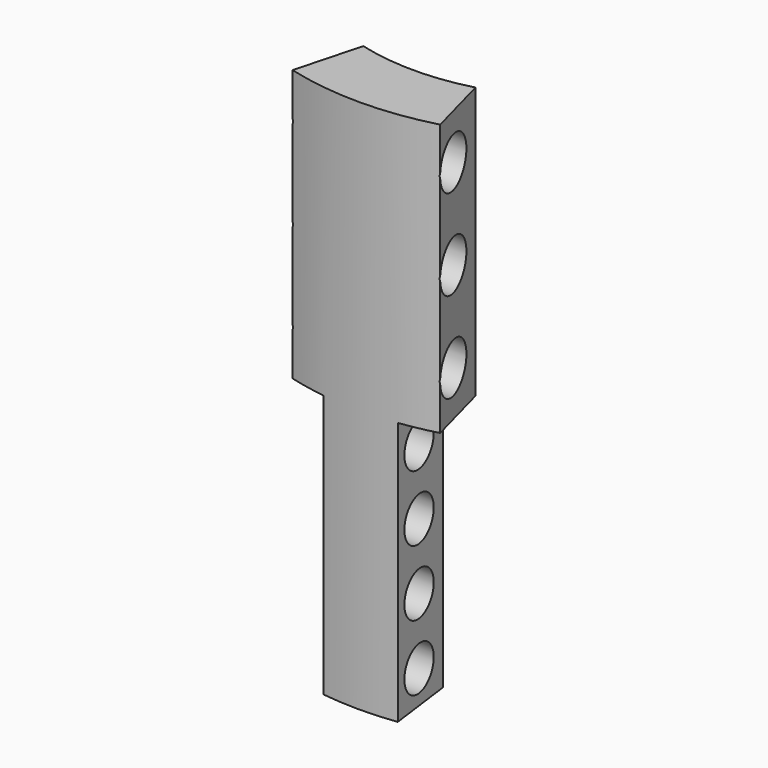
from build123d import *

# Parameters (mm, degrees)
F0_W     = 6.25
F0_H     = 24.75
F0_R     = 2.25
F1_ANGLE = 30
F2_DEPTH = 12.5
F0_H_2   = 24
F0_R_2   = 2
F3_ANGLE = 15
F4_DEPTH = 5


with BuildPart() as f1:
    # F0 (on Right) → F1 (revolve, symmetric)
    with BuildSketch(Plane.YZ) as f1_sk:
        with Locations((-22.875, 48.987537)):
            Rectangle(F0_W, F0_H)
        with Locations((-22.875, 40.737537)):
            Circle(F0_R, mode=Mode.SUBTRACT)
        with Locations((-22.875, 48.987537)):
            Circle(F0_R, mode=Mode.SUBTRACT)
        with Locations((-22.875, 57.237537)):
            Circle(F0_R, mode=Mode.SUBTRACT)
        with Locations((-22.875, 57.237537)):
            Circle(F0_R)
        with Locations((-22.875, 48.987537)):
            Circle(F0_R)
        with Locations((-22.875, 40.737537)):
            Circle(F0_R)
    revolve(axis=Axis((0, 0, 63), (0, 0, 1)), revolution_arc=F1_ANGLE / 2)
    revolve(f1_sk.sketch, axis=Axis((0, 0, 63), (0, 0, -1)), revolution_arc=F1_ANGLE / 2)

    # F0 (on Right) → F2 (cut, symmetric)
    with BuildSketch(Plane.YZ):
        with Locations((-22.875, 57.237537)):
            Circle(F0_R)
        with Locations((-22.875, 48.987537)):
            Circle(F0_R)
        with Locations((-22.875, 40.737537)):
            Circle(F0_R)
    extrude(amount=F2_DEPTH, both=True, mode=Mode.SUBTRACT)

    # F0 (on Right) → F3 (revolve, symmetric)
    with BuildSketch(Plane.YZ) as f3_sk:
        with Locations((-22.875, 24.612537)):
            Rectangle(F0_W, F0_H_2)
        with Locations((-22.875, 15.612537)):
            Circle(F0_R_2, mode=Mode.SUBTRACT)
        with Locations((-22.875, 21.612537)):
            Circle(F0_R_2, mode=Mode.SUBTRACT)
        with Locations((-22.875, 27.612537)):
            Circle(F0_R_2, mode=Mode.SUBTRACT)
        with Locations((-22.875, 33.612537)):
            Circle(F0_R_2, mode=Mode.SUBTRACT)
        with Locations((-22.875, 33.612537)):
            Circle(F0_R_2)
        with Locations((-22.875, 27.612537)):
            Circle(F0_R_2)
        with Locations((-22.875, 21.612537)):
            Circle(F0_R_2)
        with Locations((-22.875, 15.612537)):
            Circle(F0_R_2)
    revolve(axis=Axis((0, 0, 63), (0, 0, 1)), revolution_arc=F3_ANGLE / 2)
    revolve(f3_sk.sketch, axis=Axis((0, 0, 63), (0, 0, -1)), revolution_arc=F3_ANGLE / 2)

    # F0 (on Right) → F4 (cut, symmetric)
    with BuildSketch(Plane.YZ):
        with Locations((-22.875, 33.612537)):
            Circle(F0_R_2)
        with Locations((-22.875, 27.612537)):
            Circle(F0_R_2)
        with Locations((-22.875, 21.612537)):
            Circle(F0_R_2)
        with Locations((-22.875, 15.612537)):
            Circle(F0_R_2)
    extrude(amount=F4_DEPTH, both=True, mode=Mode.SUBTRACT)


solid = f1.part
